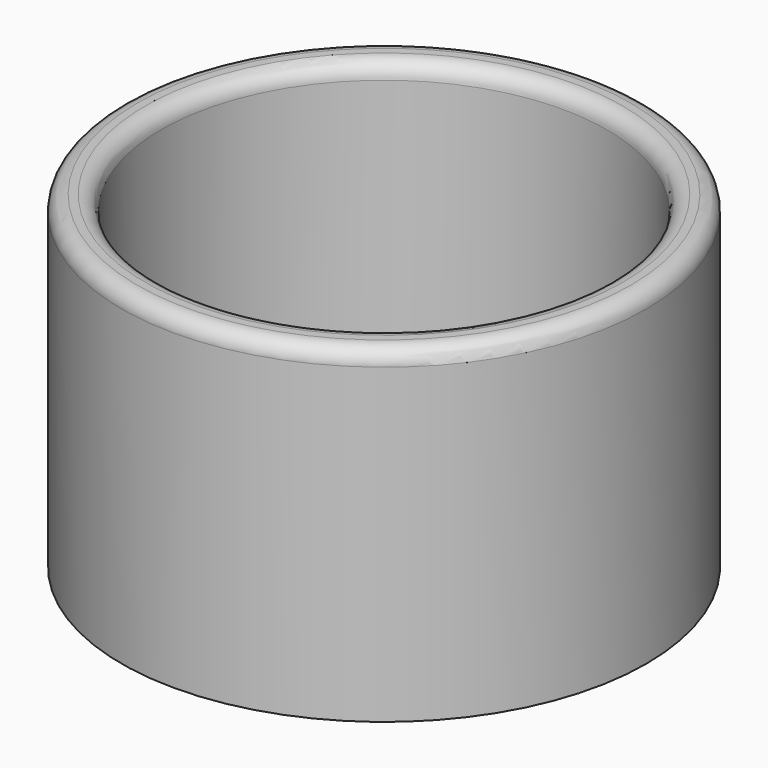
from build123d import *

# Parameters (mm, degrees)
F0_R     = 200
F0_R_2   = 170
F1_DEPTH = 250
F2_R     = 170
F3_DEPTH = 30
F4_R     = 12


with BuildPart() as f1:
    # F0 (on Top) → F1 (new body)
    with BuildSketch(Plane.XY):
        Circle(F0_R)
        Circle(F0_R_2, mode=Mode.SUBTRACT)
    extrude(amount=F1_DEPTH)

    # F2 (on Top) → F3 (join)
    with BuildSketch(Plane.XY):
        Circle(F2_R)
    extrude(amount=F3_DEPTH)

    # F4
    f4_edges = [f1.edges().sort_by_distance(p)[0] for p in [
        (-170, 0, 250),
        (-200, 0, 250),
    ]]
    fillet(f4_edges, radius=F4_R)


solid = f1.part
